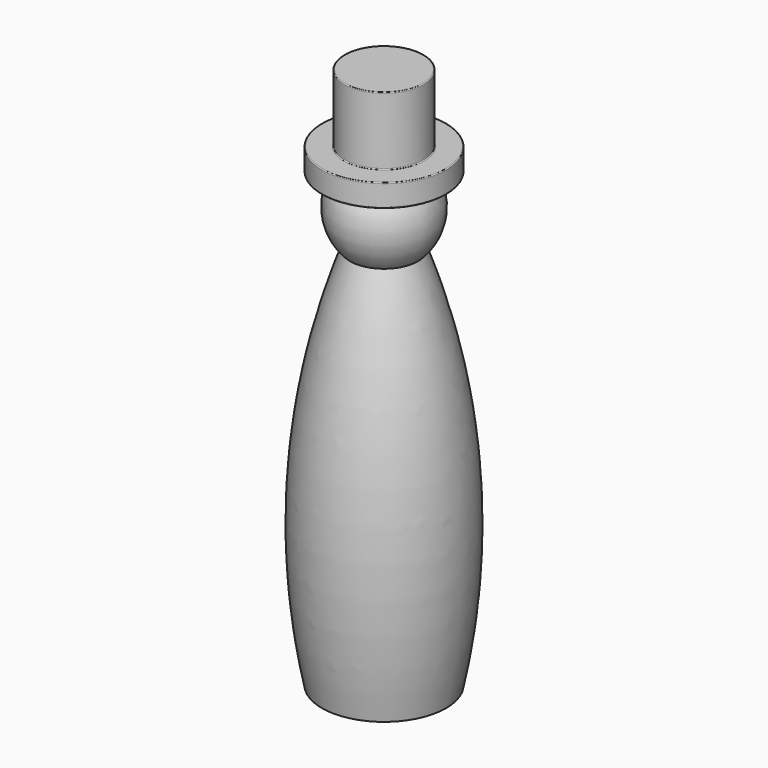
from build123d import *

# Parameters (mm, degrees)
F0_W = 1.157552
F0_H = 1.984375
F2_R = 0.0254


with BuildPart() as f1:
    # F0 (on Front) → F1 (revolve)
    with BuildSketch(Plane.XZ):
        with Locations((0.578776, 7.149273)):
            Rectangle(F0_W, F0_H)
        Polygon((1.157552, 6.157086), (0, 6.157086), (0, 5.495628), (1.157552, 5.495628), (1.81901, 5.495628), (1.81901, 6.157086), align=None)
        with BuildLine():
            Line((1.157552, 5.495628), (0, 5.495628))
            Line((0, 5.495628), (0, 3.511253))
            Line((0, 3.511253), (0.992188, 3.511253))
            ThreePointArc((0.992188, 3.511253), (1.433049, 4.473592), (1.157552, 5.495628))
        make_face()
        with BuildLine():
            Line((0.992188, 3.511253), (0, 3.511253))
            Line((0, 3.511253), (0, -7.733539))
            Line((0, -7.733539), (0.992188, -7.733539))
            Line((0.992188, -7.733539), (1.81901, -7.733539))
            ThreePointArc((1.81901, -7.733539), (2.195743, -2.053044), (0.992188, 3.511253))
        make_face()
    revolve(axis=Axis((0, 0, 0.203961), (0, 0, -1)))

    # F2
    f2_edges = [f1.edges().sort_by_distance(p)[0] for p in [
        (-1.157552, 0, 8.141461),
        (-1.81901, 0, 6.157086),
        (-1.81901, 0, 5.495628),
        (-1.157552, 0, 6.157086),
    ]]
    fillet(f2_edges, radius=F2_R)


solid = f1.part
